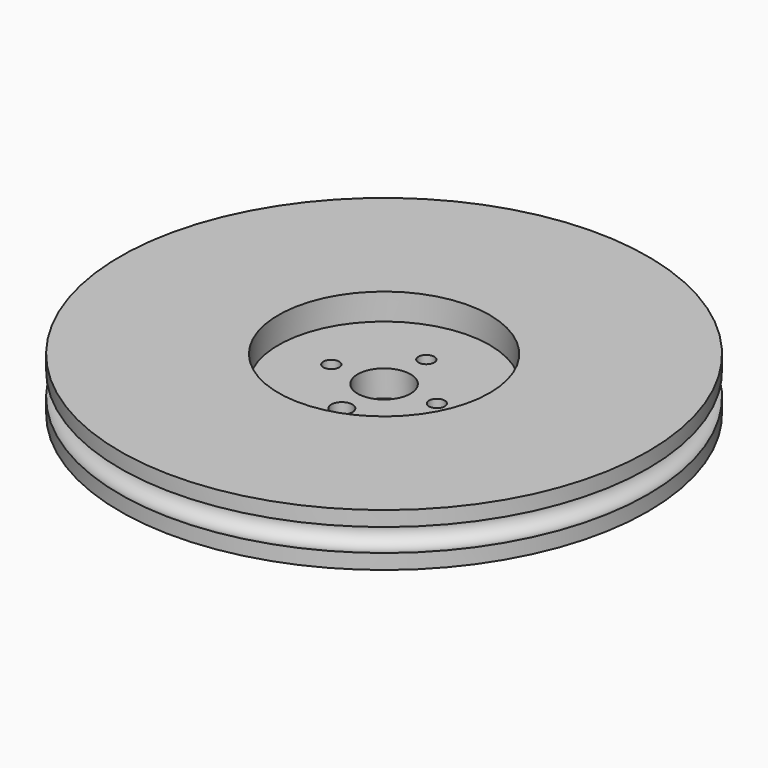
from build123d import *

# Parameters (mm, degrees)
CYLINDER006_R     = 0.4
CYLINDER006_DEPTH = 10
CYLINDER005_R     = 0.3
CYLINDER005_DEPTH = 10
CYLINDER004_R     = 0.3
CYLINDER004_DEPTH = 10
CYLINDER003_R     = 0.3
CYLINDER003_DEPTH = 10
CYLINDER002_R     = 1
CYLINDER002_DEPTH = 10
CYLINDER001_R     = 4
CYLINDER001_DEPTH = 1
TORUS_R           = 0.5
CYLINDER_R        = 10
CYLINDER_DEPTH    = 2


with BuildPart() as cilindro006:
    # Cylinder006 → Cylinder006 (new body)
    with BuildSketch(Plane(origin=(0, -2, 0), x_dir=(1, 0, 0), z_dir=(0, 0, 1))):
        Circle(CYLINDER006_R)
    extrude(amount=CYLINDER006_DEPTH)


with BuildPart() as cilindro005:
    # Cylinder005 → Cylinder005 (new body)
    with BuildSketch(Plane(origin=(0, 2, 0), x_dir=(1, 0, 0), z_dir=(0, 0, 1))):
        Circle(CYLINDER005_R)
    extrude(amount=CYLINDER005_DEPTH)


with BuildPart() as cilindro004:
    # Cylinder004 → Cylinder004 (new body)
    with BuildSketch(Plane(origin=(2, 0, 0), x_dir=(1, 0, 0), z_dir=(0, 0, 1))):
        Circle(CYLINDER004_R)
    extrude(amount=CYLINDER004_DEPTH)


with BuildPart() as cilindro003:
    # Cylinder003 → Cylinder003 (new body)
    with BuildSketch(Plane(origin=(-2, 0, 0), x_dir=(1, 0, 0), z_dir=(0, 0, 1))):
        Circle(CYLINDER003_R)
    extrude(amount=CYLINDER003_DEPTH)


with BuildPart() as cilindro002:
    # Cylinder002 → Cylinder002 (new body)
    with BuildSketch(Plane.XY):
        Circle(CYLINDER002_R)
    extrude(amount=CYLINDER002_DEPTH)


with BuildPart() as cilindro001:
    # Cylinder001 → Cylinder001 (new body)
    with BuildSketch(Plane.XY.offset(1)):
        Circle(CYLINDER001_R)
    extrude(amount=CYLINDER001_DEPTH)


with BuildPart() as toro:
    # Torus → Torus (revolve)
    with BuildSketch(Plane(origin=(0, 0, 1), x_dir=(1, 0, 0), z_dir=(0, -1, 0))):
        with Locations((9.75, 0)):
            Circle(TORUS_R)
    revolve(axis=Axis((0, 0, 1), (0, 0, 1)))


with BuildPart() as rueda:
    # Cylinder → Cylinder (new body)
    with BuildSketch(Plane.XY):
        Circle(CYLINDER_R)
    extrude(amount=CYLINDER_DEPTH)

    # Cut: cut Toro
    add(toro.part, mode=Mode.SUBTRACT)

    # Cut001: cut Cilindro001
    add(cilindro001.part, mode=Mode.SUBTRACT)

    # Cut002: cut Cilindro002
    add(cilindro002.part, mode=Mode.SUBTRACT)

    # Cut003: cut Cilindro003
    add(cilindro003.part, mode=Mode.SUBTRACT)

    # Cut004: cut Cilindro004
    add(cilindro004.part, mode=Mode.SUBTRACT)

    # Cut005: cut Cilindro005
    add(cilindro005.part, mode=Mode.SUBTRACT)

    # Cut006: cut Cilindro006
    add(cilindro006.part, mode=Mode.SUBTRACT)


solid = rueda.part
